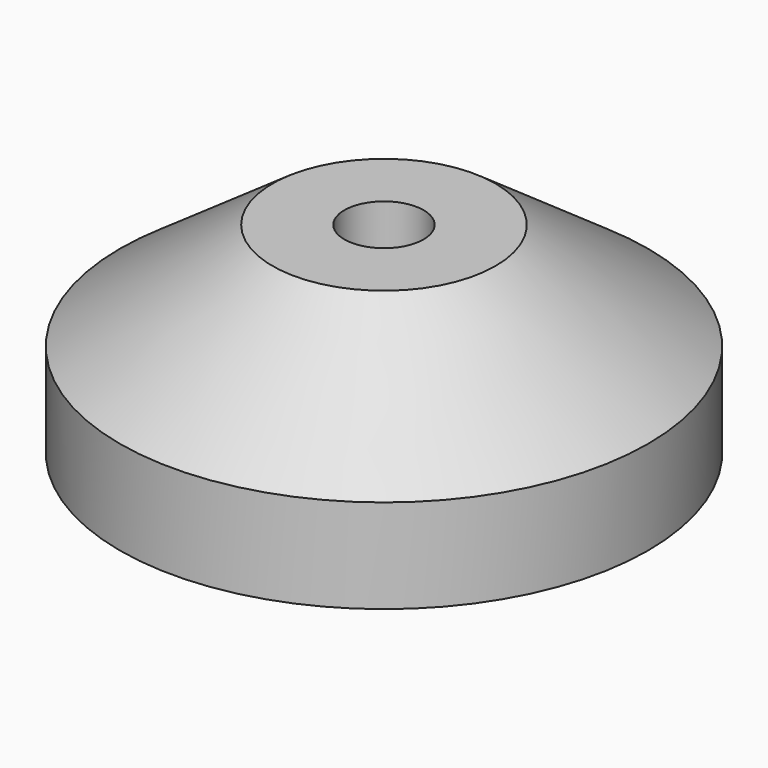
from build123d import *


with BuildPart() as f1:
    # F0 (on Front) → F1 (revolve)
    with BuildSketch(Plane.XZ):
        with BuildLine():
            Line((0, 1.505698), (0, 0))
            ThreePointArc((0, 0), (3.177226, -0.188242), (6.309997, -0.750336))
            Line((6.309997, -0.750336), (7.62, -0.750336))
            Line((7.62, -0.750336), (7.62, 1.960104))
            Line((7.62, 1.960104), (3.218313, 5.04532))
            Line((3.218313, 5.04532), (1.143, 5.04532))
            Line((1.143, 5.04532), (1.143, 1.505698))
            Line((1.143, 1.505698), (0, 1.505698))
        make_face()
    revolve(axis=Axis((0, 0, 0.752849), (0, 0, 1)))

    # F0 (on Front) → F2 (revolve)
    with BuildSketch(Plane.XZ):
        with BuildLine():
            ThreePointArc((6.309997, -0.750336), (3.177226, -0.188242), (0, 0))
            Line((0, 0), (0, -0.750336))
            Line((0, -0.750336), (6.309997, -0.750336))
        make_face()
    revolve(axis=Axis((0, 0, 0.752849), (0, 0, 1)))


solid = f1.part
